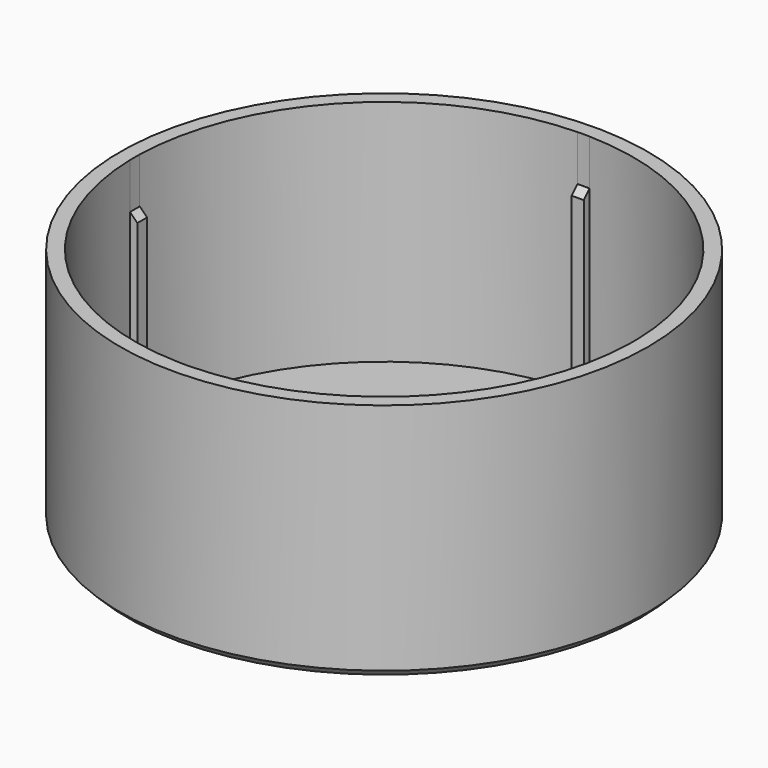
from build123d import *

# Parameters (mm, degrees)
F1_R     = 17.315
F2_DEPTH = 0.8
F3_DEPTH = 15
F4_DEPTH = 12
F5_SIZE  = 0.48
F6_SIZE  = 0.48


with BuildPart() as f2:
    # F1 (on Top) → F2 (new body)
    with BuildSketch(Plane.XY):
        Circle(F1_R)
        with BuildLine():
            ThreePointArc((16.3501077978, 0.4), (16.3537769037, 0.200014958), (16.355, 0))
            ThreePointArc((16.355, 0), (16.3537769037, -0.200014958), (16.3501077978, -0.4))
            ThreePointArc((16.3501077978, -0.4), (11.5647314063, -11.5647314063), (0.4, -16.3501077978))
            ThreePointArc((0.4, -16.3501077978), (0, -16.355), (-0.4, -16.3501077978))
            ThreePointArc((-0.4, -16.3501077978), (-11.5647314063, -11.5647314063), (-16.3501077978, -0.4))
            ThreePointArc((-16.3501077978, -0.4), (-16.355, 0), (-16.3501077978, 0.4))
            ThreePointArc((-16.3501077978, 0.4), (-11.5647314063, 11.5647314063), (-0.4, 16.3501077978))
            ThreePointArc((-0.4, 16.3501077978), (0, 16.355), (0.4, 16.3501077978))
            ThreePointArc((0.4, 16.3501077978), (11.5647314063, 11.5647314063), (16.3501077978, 0.4))
        make_face(mode=Mode.SUBTRACT)
        with BuildLine():
            Line((15.8699598298, 0.4), (16.3501077978, 0.4))
            ThreePointArc((16.3501077978, 0.4), (11.5647314063, 11.5647314063), (0.4, 16.3501077978))
            Line((0.4, 16.3501077978), (0.4, 15.8699598298))
            Line((0.4, 15.8699598298), (-0.4, 15.8699598298))
            Line((-0.4, 15.8699598298), (-0.4, 16.3501077978))
            ThreePointArc((-0.4, 16.3501077978), (-11.5647314063, 11.5647314063), (-16.3501077978, 0.4))
            Line((-16.3501077978, 0.4), (-15.8699598298, 0.4))
            Line((-15.8699598298, 0.4), (-15.8699598298, -0.4))
            Line((-15.8699598298, -0.4), (-16.3501077978, -0.4))
            ThreePointArc((-16.3501077978, -0.4), (-11.5647314063, -11.5647314063), (-0.4, -16.3501077978))
            Line((-0.4, -16.3501077978), (-0.4, -15.8699598298))
            Line((-0.4, -15.8699598298), (0.4, -15.8699598298))
            Line((0.4, -15.8699598298), (0.4, -16.3501077978))
            ThreePointArc((0.4, -16.3501077978), (11.5647314063, -11.5647314063), (16.3501077978, -0.4))
            Line((16.3501077978, -0.4), (15.8699598298, -0.4))
            Line((15.8699598298, -0.4), (15.8699598298, 0.4))
        make_face()
        with BuildLine():
            Line((-15.8699598298, 0.4), (-16.3501077978, 0.4))
            ThreePointArc((-16.3501077978, 0.4), (-16.355, 0), (-16.3501077978, -0.4))
            Line((-16.3501077978, -0.4), (-15.8699598298, -0.4))
            Line((-15.8699598298, -0.4), (-15.8699598298, 0.4))
        make_face()
        with BuildLine():
            ThreePointArc((-0.4, -16.3501077978), (0, -16.355), (0.4, -16.3501077978))
            Line((0.4, -16.3501077978), (0.4, -15.8699598298))
            Line((0.4, -15.8699598298), (-0.4, -15.8699598298))
            Line((-0.4, -15.8699598298), (-0.4, -16.3501077978))
        make_face()
        with BuildLine():
            ThreePointArc((16.3501077978, -0.4), (16.3537769037, -0.200014958), (16.355, 0))
            ThreePointArc((16.355, 0), (16.3537769037, 0.200014958), (16.3501077978, 0.4))
            Line((16.3501077978, 0.4), (15.8699598298, 0.4))
            Line((15.8699598298, 0.4), (15.8699598298, -0.4))
            Line((15.8699598298, -0.4), (16.3501077978, -0.4))
        make_face()
        with BuildLine():
            Line((0.4, 15.8699598298), (0.4, 16.3501077978))
            ThreePointArc((0.4, 16.3501077978), (0, 16.355), (-0.4, 16.3501077978))
            Line((-0.4, 16.3501077978), (-0.4, 15.8699598298))
            Line((-0.4, 15.8699598298), (0.4, 15.8699598298))
        make_face()
    extrude(amount=-F2_DEPTH)

    # F1 (on Top) → F3 (join)
    with BuildSketch(Plane.XY):
        Circle(F1_R)
        with BuildLine():
            ThreePointArc((16.3501077978, 0.4), (16.3537769037, 0.200014958), (16.355, 0))
            ThreePointArc((16.355, 0), (16.3537769037, -0.200014958), (16.3501077978, -0.4))
            ThreePointArc((16.3501077978, -0.4), (11.5647314063, -11.5647314063), (0.4, -16.3501077978))
            ThreePointArc((0.4, -16.3501077978), (0, -16.355), (-0.4, -16.3501077978))
            ThreePointArc((-0.4, -16.3501077978), (-11.5647314063, -11.5647314063), (-16.3501077978, -0.4))
            ThreePointArc((-16.3501077978, -0.4), (-16.355, 0), (-16.3501077978, 0.4))
            ThreePointArc((-16.3501077978, 0.4), (-11.5647314063, 11.5647314063), (-0.4, 16.3501077978))
            ThreePointArc((-0.4, 16.3501077978), (0, 16.355), (0.4, 16.3501077978))
            ThreePointArc((0.4, 16.3501077978), (11.5647314063, 11.5647314063), (16.3501077978, 0.4))
        make_face(mode=Mode.SUBTRACT)
    extrude(amount=F3_DEPTH)

    # F1 (on Top) → F4 (join)
    with BuildSketch(Plane.XY):
        with BuildLine():
            Line((0.4, 15.8699598298), (0.4, 16.3501077978))
            ThreePointArc((0.4, 16.3501077978), (0, 16.355), (-0.4, 16.3501077978))
            Line((-0.4, 16.3501077978), (-0.4, 15.8699598298))
            Line((-0.4, 15.8699598298), (0.4, 15.8699598298))
        make_face()
        with BuildLine():
            Line((-15.8699598298, 0.4), (-16.3501077978, 0.4))
            ThreePointArc((-16.3501077978, 0.4), (-16.355, 0), (-16.3501077978, -0.4))
            Line((-16.3501077978, -0.4), (-15.8699598298, -0.4))
            Line((-15.8699598298, -0.4), (-15.8699598298, 0.4))
        make_face()
        with BuildLine():
            ThreePointArc((16.3501077978, -0.4), (16.3537769037, -0.200014958), (16.355, 0))
            ThreePointArc((16.355, 0), (16.3537769037, 0.200014958), (16.3501077978, 0.4))
            Line((16.3501077978, 0.4), (15.8699598298, 0.4))
            Line((15.8699598298, 0.4), (15.8699598298, -0.4))
            Line((15.8699598298, -0.4), (16.3501077978, -0.4))
        make_face()
        with BuildLine():
            ThreePointArc((-0.4, -16.3501077978), (0, -16.355), (0.4, -16.3501077978))
            Line((0.4, -16.3501077978), (0.4, -15.8699598298))
            Line((0.4, -15.8699598298), (-0.4, -15.8699598298))
            Line((-0.4, -15.8699598298), (-0.4, -16.3501077978))
        make_face()
    extrude(amount=F4_DEPTH)

    # F5
    f5_edges = [f2.edges().sort_by_distance(p)[0] for p in [
        (-17.315, 0, -0.8),
    ]]
    chamfer(f5_edges, length=F5_SIZE)

    # F6
    f6_edges = [f2.edges().sort_by_distance(p)[0] for p in [
        (-15.86996, 0, 12),
        (0, 15.86996, 12),
        (15.86996, 0, 12),
        (0, -15.86996, 12),
    ]]
    chamfer(f6_edges, length=F6_SIZE)


solid = f2.part
